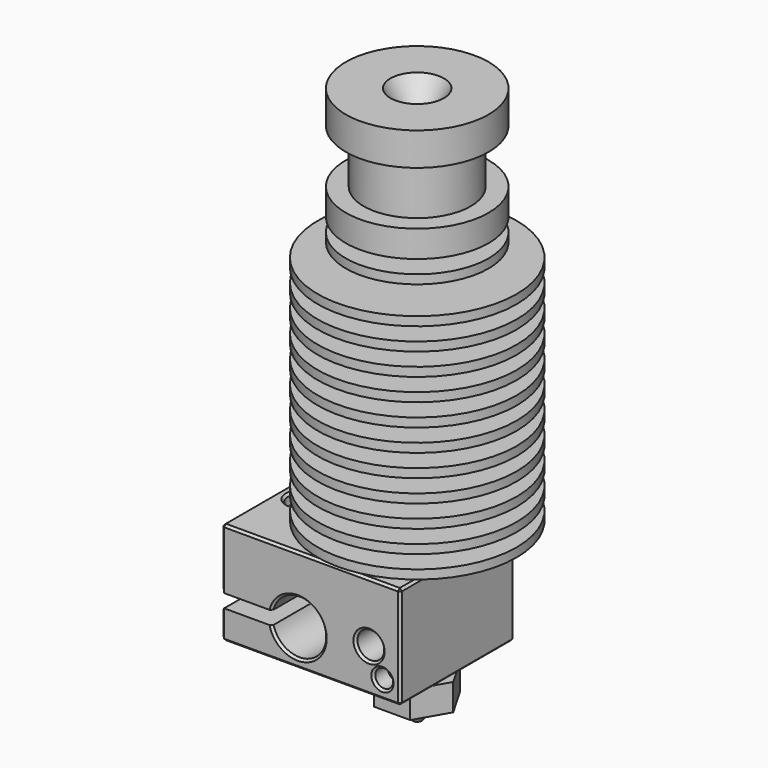
from build123d import *

# Parameters (mm, degrees)
F4_R      = 5
F5_DEPTH  = 3
F6_W      = 20
F6_H      = 16
F6_R      = 1.5
F6_R_2    = 3
F7_DEPTH  = 11.5
F9_DEPTH  = 19.151
F8_R      = 1.5
F10_DEPTH = 3.5
F8_R_2    = 0.75
F11_DEPTH = 4.5
F8_R_3    = 1
F12_DEPTH = 2
F13_SIZE  = 0.25


with BuildPart() as f1:
    # F0 (on Front) → F1 (revolve)
    with BuildSketch(Plane.XZ):
        Polygon((1.6, 40.2751288694), (1.6, 18.509558328), (3, 18), (3, 0), (11.15, 0), (11.15, 1), (5.5563390571, 1), (5.5563390571, 2.5), (11.15, 2.5), (11.15, 3.5), (5.4471866998, 3.5), (5.4471866998, 5), (11.15, 5), (11.15, 6), (5.3380343425, 6), (5.3380343425, 7.5), (11.15, 7.5), (11.15, 8.5), (5.2288819853, 8.5), (5.2288819853, 10), (11.15, 10), (11.15, 11), (5.119729628, 11), (5.119729628, 12.5), (11.15, 12.5), (11.15, 13.5), (5.0105772707, 13.5), (5.0105772707, 15), (11.15, 15), (11.15, 16), (4.9014249135, 16), (4.9014249135, 17.5), (11.15, 17.5), (11.15, 18.5), (4.7922725562, 18.5), (4.7922725562, 20), (11.15, 20), (11.15, 21), (4.6831201989, 21), (4.6831201989, 22.5), (11.15, 22.5), (11.15, 23.5), (4.5739678416, 23.5), (4.5739678416, 25), (11.15, 25), (11.15, 26), (4.4648154844, 26), (4.4648154844, 27.5), (8, 27.5), (8, 28.5), (4.4648154844, 28.5), (4.4648154844, 30), (8, 30), (8, 33), (6, 33), (6, 39), (8, 39), (8, 42.7), (3, 42.7), align=None)
    revolve(axis=Axis((0, 0, 21.35), (0, 0, -1)))


with BuildPart() as f2:
    # F0 (on Front) → F2 (revolve)
    with BuildSketch(Plane.XZ):
        Polygon((1.6, 18.509558328), (1.6, 0), (2, 0), (3, 0), (3, 18), align=None)
        Polygon((2, 0), (1.6, 0), (1.6, -7.1), (1.85, -7.1), (2.75, -7.1), (3, -6.85), (3, -2.1), (2, -2.1), align=None)
    revolve(axis=Axis((0, 0, 21.35), (0, 0, -1)))


with BuildPart() as f3:
    # F0 (on Front) → F3 (revolve)
    with BuildSketch(Plane.XZ):
        Polygon((2.75, -7.1), (1.85, -7.1), (1.6, -7.35), (1.6, -17.2), (0.75, -17.4550415822), (0.75, -18.6349730939), (0.2, -18.8), (0.2, -19.6), (0.5, -19.6), (1.9004150764, -17.6), (5, -17.6), (5, -14.6), (2.5, -14.6), (2.5, -13.1), (2.75, -13.1), (3, -12.85), (3, -7.35), align=None)
    revolve(axis=Axis((0, 0, 21.35), (0, 0, -1)))

    # F4 (on face) → F5 (cut, through all)
    with BuildSketch(Plane(origin=(0, 0, -17.6), x_dir=(1, 0, 0), z_dir=(0, 0, -1))):
        Circle(F4_R)
        Polygon((-4.0414518843, 0), (-2.0207259422, 3.5), (2.0207259422, 3.5), (4.0414518843, 0), (2.0207259422, -3.5), (-2.0207259422, -3.5), align=None, mode=Mode.SUBTRACT)
    extrude(amount=-F5_DEPTH, mode=Mode.SUBTRACT)


with BuildPart() as f7:
    # F6 (on face) → F7 (new body)
    with BuildSketch(Plane.XY.offset(-2.1)):
        with Locations((-5.5, 0)):
            Rectangle(F6_W, F6_H)
        with Locations((-13, 0)):
            Circle(F6_R, mode=Mode.SUBTRACT)
        Circle(F6_R_2, mode=Mode.SUBTRACT)
    extrude(amount=-F7_DEPTH)

    # F8 (on face) → F9 (cut, through all)
    with BuildSketch(Plane.XZ.offset(8)):
        with BuildLine():
            Line((-15.5, -10.35), (-9.9047375097, -10.35))
            ThreePointArc((-9.9047375097, -10.35), (-4, -9.6), (-9.9047375097, -8.85))
            Line((-9.9047375097, -8.85), (-15.5, -8.85))
            Line((-15.5, -8.85), (-15.5, -10.35))
        make_face()
    extrude(amount=-F9_DEPTH, mode=Mode.SUBTRACT)

    # F8 (on face) → F10 (cut)
    with BuildSketch(Plane.XZ.offset(8)):
        with Locations((1, -8.8)):
            Circle(F8_R)
    extrude(amount=-F10_DEPTH, mode=Mode.SUBTRACT)

    # F8 (on face) → F11 (cut)
    with BuildSketch(Plane.XZ.offset(8)):
        with Locations((2.5, -11.6)):
            Circle(F8_R_2)
    extrude(amount=-F11_DEPTH, mode=Mode.SUBTRACT)

    # F8 (on face) → F12 (cut)
    with BuildSketch(Plane.XZ.offset(8)):
        with Locations((2.5, -11.6)):
            Circle(F8_R_3)
        with Locations((2.5, -11.6)):
            Circle(F8_R_2, mode=Mode.SUBTRACT)
    extrude(amount=-F12_DEPTH, mode=Mode.SUBTRACT)

    # F13
    f13_edges = [f7.edges().sort_by_distance(p)[0] for p in [
        (-15.5, -8, -5.475),
        (-5.5, -8, -2.1),
        (4.5, -8, -7.85),
        (-5.5, -8, -13.6),
        (-15.5, 0, -10.35),
        (-15.5, 0, -8.85),
        (-15.5, 0, -13.6),
        (-15.5, 0, -2.1),
        (-15.5, 8, -5.475),
        (-15.5, 8, -11.975),
        (-12.702369, 8, -8.85),
        (-12.702369, 8, -10.35),
        (-4, 8, -9.6),
        (-5.5, 8, -2.1),
        (4.5, 8, -7.85),
        (-5.5, 8, -13.6),
        (-14.5, 0, -13.6),
        (-3, 0, -13.6),
        (4.5, 0, -13.6),
        (4.5, 0, -2.1),
        (-15.5, -8, -11.975),
        (-14.5, 0, -2.1),
        (-3, 0, -2.1),
        (-0.5, -8, -8.8),
        (1.5, -8, -11.6),
        (-4, -8, -9.6),
    ]]
    chamfer(f13_edges, length=F13_SIZE)


solid = Compound([f1.part, f2.part, f3.part, f7.part])
